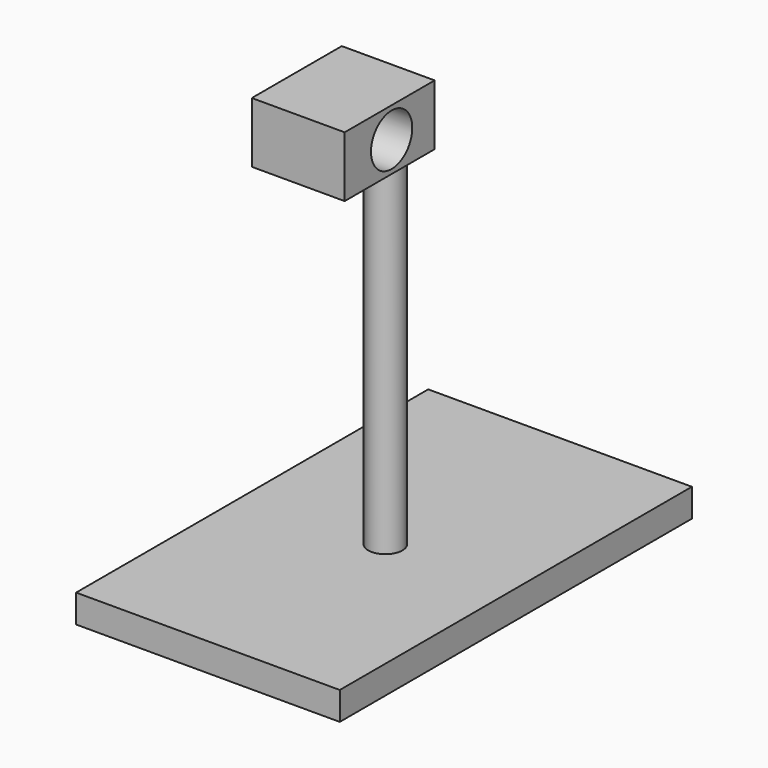
from build123d import *

# Parameters (mm, degrees)
F0_R     = 200
F1_DEPTH = 5000
F2_W     = 1089.929402
F2_H     = 711.1125
F3_DEPTH = 1320
F4_W     = 3094.910383
F4_H     = 5166.320801
F5_DEPTH = 330
F6_R     = 302.967415
F7_DEPTH = 1990


with BuildPart() as f1:
    # F0 (on Top) → F1 (new body)
    with BuildSketch(Plane.XY):
        Circle(F0_R)
    extrude(amount=F1_DEPTH)

    # F2 (on Front) → F3 (join)
    with BuildSketch(Plane.XZ):
        with Locations((33.616394, 4954.830885)):
            Rectangle(F2_W, F2_H)
    extrude(amount=F3_DEPTH)

    # F4 (on Top) → F5 (join)
    with BuildSketch(Plane.XY):
        with Locations((-65.211415, 61.812639)):
            Rectangle(F4_W, F4_H)
    extrude(amount=F5_DEPTH)

    # F6 (on face) → F7 (cut)
    with BuildSketch(Plane(origin=(-511.348307, 0, 0), x_dir=(0, -1, 0), z_dir=(-1, 0, 0))):
        with Locations((630.895376, 4953.484535)):
            Circle(F6_R)
    extrude(amount=-F7_DEPTH, mode=Mode.SUBTRACT)


solid = f1.part
